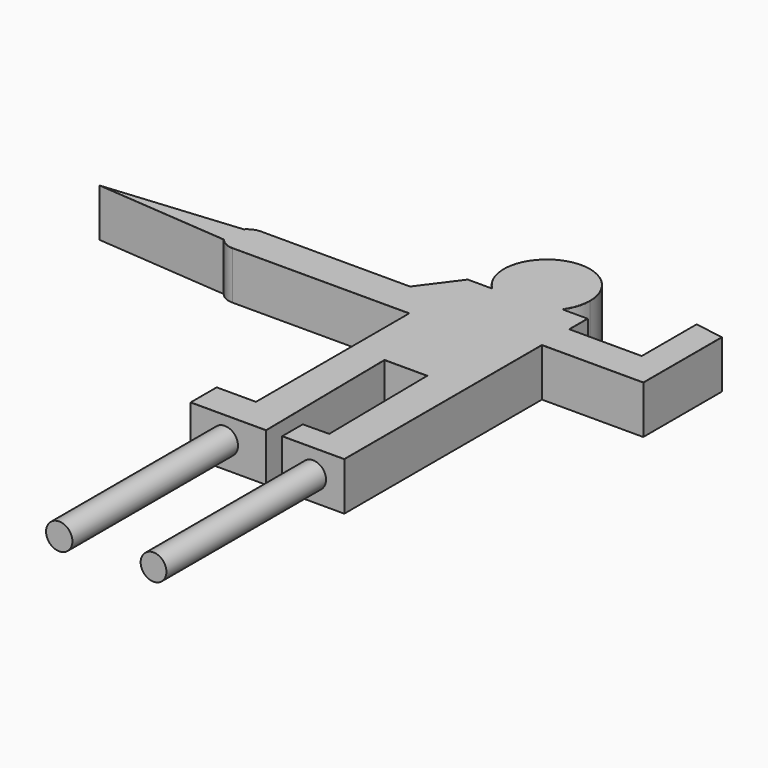
from build123d import *

# Parameters (mm, degrees)
F1_DEPTH = 5.8
F2_R     = 1.591325
F3_DEPTH = 25
F4_R     = 1.558187
F5_DEPTH = 24.1
F6_R     = 0.024142


with BuildPart() as f1:
    # F0 (on Top) → F1 (new body)
    with BuildSketch(Plane.XY):
        with BuildLine():
            ThreePointArc((-18.736619, 35.570893), (-18.046336, 36.984925), (-17.809047, 38.540454))
            ThreePointArc((-17.809047, 38.540454), (-25.090576, 43.331899), (-26.609889, 34.748759))
            ThreePointArc((-26.609889, 34.748759), (-22.484422, 33.351452), (-18.736619, 35.570893))
        make_face()
        with BuildLine():
            ThreePointArc((-18.736619, 35.570893), (-22.484422, 33.351452), (-26.609889, 34.748759))
            Line((-26.609889, 34.748759), (-29.543604, 34.748759))
            Line((-29.543604, 34.748759), (-29.543604, 25.887705))
            Line((-29.543604, 25.887705), (-29.543604, 16.994981))
            Line((-29.543604, 16.994981), (-25.393665, 16.994981))
            Line((-25.393665, 16.994981), (-20.255648, 16.994981))
            Line((-20.255648, 16.994981), (-15.710477, 16.994981))
            Line((-15.710477, 16.994981), (-15.710477, 28.654329))
            Line((-15.710477, 28.654329), (-15.710477, 32.804266))
            Line((-15.710477, 32.804266), (-15.710477, 35.570893))
            Line((-15.710477, 35.570893), (-18.736619, 35.570893))
        make_face()
        Polygon((-29.543604, 25.887705), (-29.543604, 34.748759), (-32.903075, 30.235259), (-50.886139, 30.235259), (-50.886139, 25.887705), align=None)
        Polygon((-6.980983, 32.804266), (-15.710477, 32.804266), (-15.710477, 28.654329), (-3.458281, 28.654329), (-3.458281, 40.511291), (-6.980983, 41.109147), align=None)
        Polygon((-25.393665, 16.994981), (-29.543604, 16.994981), (-29.543603, 2.766625), (-34.286387, 2.766625), (-34.286387, -1.185696), (-25.154444, -1.185696), align=None)
        with BuildLine():
            ThreePointArc((-52.614244, 26.742787), (-51.850182, 26.113168), (-50.886139, 25.887705))
            Line((-50.886139, 25.887705), (-50.886139, 30.235259))
            ThreePointArc((-50.886139, 30.235259), (-51.740629, 30.06027), (-52.457546, 29.563477))
            ThreePointArc((-52.457546, 29.563477), (-53.056569, 28.182057), (-52.614244, 26.742787))
        make_face()
        with BuildLine():
            Line((-68.671584, 28.061482), (-52.614244, 26.742787))
            ThreePointArc((-52.614244, 26.742787), (-53.056569, 28.182057), (-52.457546, 29.563477))
            Line((-52.457546, 29.563477), (-68.671584, 28.061482))
        make_face()
        Polygon((-15.710477, -1.185696), (-15.710477, 16.994981), (-20.255648, 16.994981), (-20.05803, 1.976161), (-23.229739, 1.934428), (-23.229739, -1.185696), align=None)
    extrude(amount=F1_DEPTH)

    # F2 (on face) → F3 (join)
    with BuildSketch(Plane.XZ.offset(1.185696)):
        with Locations((-30.139845, 3.054563)):
            Circle(F2_R)
    extrude(amount=F3_DEPTH)

    # F4 (on face) → F5 (join)
    with BuildSketch(Plane.XZ.offset(1.185696)):
        with Locations((-19.470108, 2.9)):
            Circle(F4_R)
    extrude(amount=F5_DEPTH)

    # F6
    f6_edges = [f1.edges().sort_by_distance(p)[0] for p in [
        (-15.710477, 13.734317, 5.8),
        (-9.584379, 28.654329, 5.8),
        (-3.458281, 34.58281, 5.8),
        (-3.458281, 34.58281, 0),
        (-23.568103, 43.729456, 5.8),
        (-28.076746, 34.748759, 5.8),
        (-31.223339, 32.492009, 5.8),
        (-41.894607, 30.235259, 5.8),
        (-51.740629, 30.06027, 5.8),
        (-60.564565, 28.812479, 5.8),
        (-60.642914, 27.402134, 5.8),
        (-51.850182, 26.113168, 5.8),
        (-40.214871, 25.887705, 5.8),
        (-29.543604, 21.441343, 5.8),
        (-29.543603, 9.880803, 5.8),
        (-31.914995, 2.766625, 5.8),
        (-34.286387, 0.790464, 5.8),
        (-29.720416, -1.185696, 5.8),
        (-25.274054, 7.904642, 5.8),
        (-22.824656, 16.994981, 5.8),
        (-20.156839, 9.485571, 5.8),
        (-21.643885, 1.955294, 5.8),
        (-23.229739, 0.374366, 5.8),
        (-19.470108, -1.185696, 5.8),
        (-5.219632, 40.810219, 5.8),
        (-6.980983, 36.956706, 5.8),
        (-11.34573, 32.804266, 5.8),
        (-15.710477, 34.18758, 5.8),
        (-17.223548, 35.570893, 5.8),
    ]]
    fillet(f6_edges, radius=F6_R)


solid = f1.part
